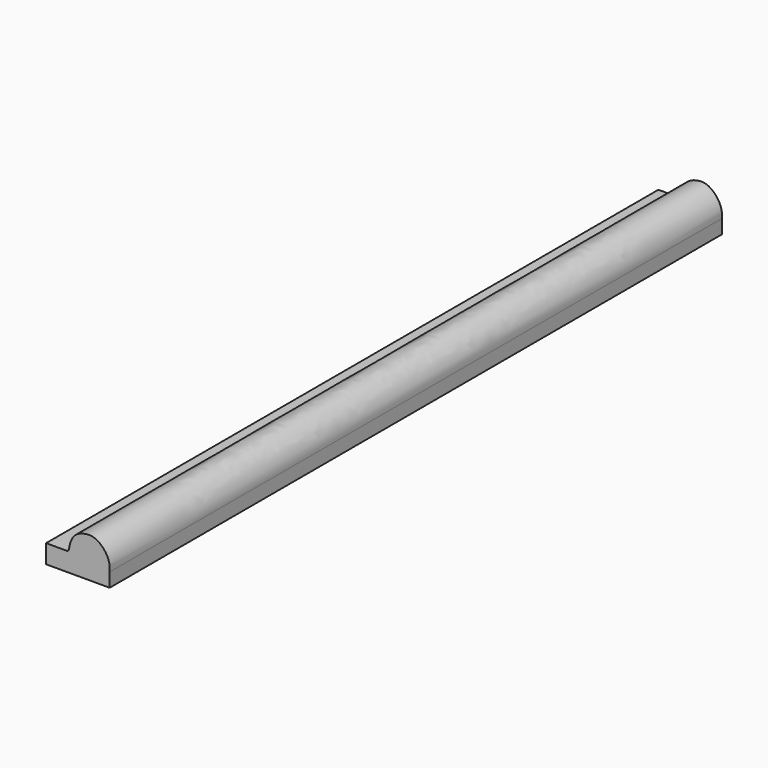
from build123d import *

# Parameters (mm, degrees)
F1_DEPTH = 152.4


with BuildPart() as f1:
    # F0 (on Front) → F1 (new body)
    with BuildSketch(Plane.XZ):
        with BuildLine():
            ThreePointArc((-1.8159553651, 0.0454885831), (-2.0502039359, -0.2136246517), (-2.3972405886, -0.2533439547))
            Line((-2.3972405886, -0.2533439547), (-6.3574607484, -0.2533439547))
            Line((-6.3574607484, -0.2533439547), (-6.3574607484, -3.9647636004))
            Line((-6.3574607484, -3.9647636004), (6.2996735796, -3.9647636004))
            Line((6.2996735796, -3.9647636004), (6.2996735796, -1.1812573066))
            add(Edge.make_bspline(
                [(6.2996735796, -1.1812573066), (6.2996735796, -0.814759681), (6.383817909, -0.1032583156), (5.8866193863, 1.7049336943), (4.3086443465, 3.3691325781), (2.9536462115, 3.994528087), (1.3703178854, 3.9887822811), (-0.5488630221, 3.3044199207), (-1.4019577576, 1.9008299974), (-1.6895780573, 0.9041722515), (-1.7818296328, 0.2357061021)],
                knots=[0, 0, 0, 0, 0.1001275599, 0.2310061584, 0.3776694675, 0.4943349448, 0.6152039541, 0.7513752307, 0.8717565674, 1, 1, 1, 1], degree=3))
            ThreePointArc((-1.7818296328, 0.2357061021), (-1.789511711, 0.1389143942), (-1.8159553651, 0.0454885831))
        make_face()
    extrude(amount=F1_DEPTH)


solid = f1.part
